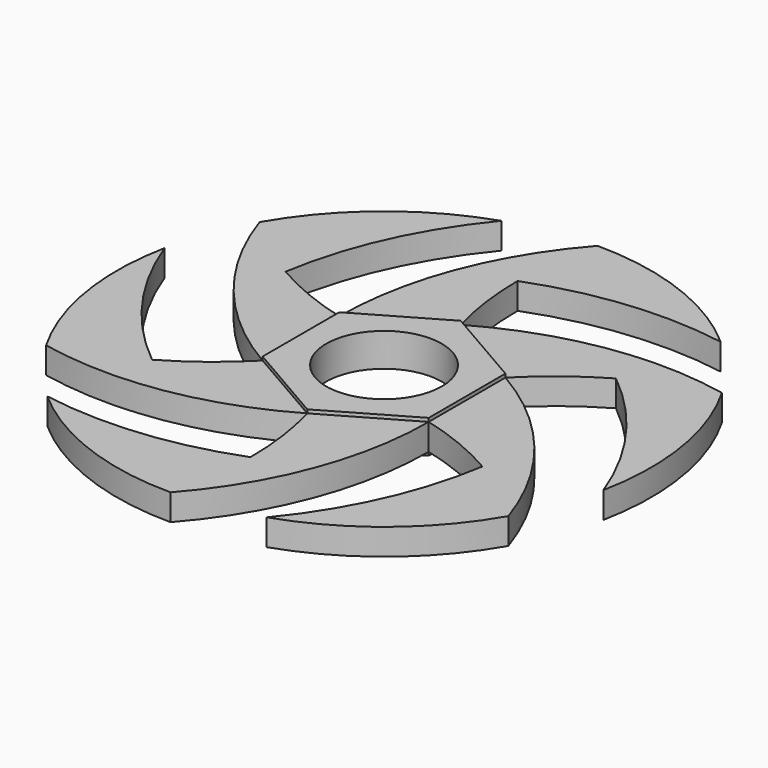
from build123d import *

# Parameters (mm, degrees)
F1_DEPTH = 2.5
F0_R     = 11
F2_DEPTH = 3.175


with BuildPart() as f1:
    # F0 (on Top) → F1 (new body, symmetric)
    with BuildSketch(Plane.XY):
        with BuildLine():
            ThreePointArc((38.774487, -30.809399), (27.844701, -10.96335), (10.5871, 3.716606))
            Line((10.5871, 3.716606), (10.5871, -14.535403))
            ThreePointArc((10.5871, -14.535403), (18.397515, -17.131664), (25.787001, -20.756393))
            ThreePointArc((25.787001, -20.756393), (32.620851, -25.343511), (38.774487, -30.809399))
        make_face()
        with BuildLine():
            Line((-5.219603, 12.84261), (10.5871, 3.716606))
            ThreePointArc((10.5871, 3.716606), (16.740736, 9.182493), (23.574586, 13.769612))
            ThreePointArc((23.574586, 13.769612), (30.964072, 17.39434), (38.774487, 19.990601))
            ThreePointArc((38.774487, 19.990601), (16.122412, 20.448153), (-5.219603, 12.84261))
        make_face()
        with BuildLine():
            ThreePointArc((-5.219603, -56.209399), (6.502686, -36.820901), (10.5871, -14.535403))
            Line((10.5871, -14.535403), (-5.219603, -23.661407))
            ThreePointArc((-5.219603, -23.661407), (-3.562824, -31.723556), (-3.007188, -39.935403))
            ThreePointArc((-3.007188, -39.935403), (-3.562824, -48.14725), (-5.219603, -56.209399))
        make_face()
        with BuildLine():
            Line((-21.026306, 3.716606), (-5.219603, 12.84261))
            ThreePointArc((-5.219603, 12.84261), (-6.876383, 20.904759), (-7.432019, 29.116606))
            ThreePointArc((-7.432019, 29.116606), (-6.876383, 37.328452), (-5.219603, 45.390601))
            ThreePointArc((-5.219603, 45.390601), (-16.941892, 26.002104), (-21.026306, 3.716606))
        make_face()
        with BuildLine():
            ThreePointArc((10.975444, -53.558754), (26.952844, -44.723183), (38.774487, -30.809399))
            ThreePointArc((38.774487, -30.809399), (32.620851, -25.343511), (25.787001, -20.756393))
            ThreePointArc((25.787001, -20.756393), (20.588854, -38.154406), (10.975444, -53.558754))
        make_face()
        with BuildLine():
            ThreePointArc((38.774487, 19.990601), (30.964072, 17.39434), (23.574586, 13.769612))
            ThreePointArc((23.574586, 13.769612), (36.042633, 0.568877), (44.576485, -15.458754))
            ThreePointArc((44.576485, -15.458754), (44.913356, 2.795866), (38.774487, 19.990601))
        make_face()
        with BuildLine():
            ThreePointArc((-49.213694, -30.809399), (-26.561618, -31.26695), (-5.219603, -23.661407))
            Line((-5.219603, -23.661407), (-21.026306, -14.535403))
            ThreePointArc((-21.026306, -14.535403), (-27.179942, -20.00129), (-34.013792, -24.588409))
            ThreePointArc((-34.013792, -24.588409), (-41.403278, -28.213137), (-49.213694, -30.809399))
        make_face()
        with BuildLine():
            ThreePointArc((-38.820645, -43.509399), (-23.180116, -52.928448), (-5.219603, -56.209399))
            ThreePointArc((-5.219603, -56.209399), (-3.562824, -48.14725), (-3.007188, -39.935403))
            ThreePointArc((-3.007188, -39.935403), (-20.673383, -44.132682), (-38.820645, -43.509399))
        make_face()
        with BuildLine():
            Line((-21.026306, -14.535403), (-21.026306, 3.716606))
            ThreePointArc((-21.026306, 3.716606), (-28.836722, 6.312867), (-36.226208, 9.937595))
            ThreePointArc((-36.226208, 9.937595), (-43.060058, 14.524714), (-49.213694, 19.990601))
            ThreePointArc((-49.213694, 19.990601), (-38.283907, 0.144553), (-21.026306, -14.535403))
        make_face()
        with BuildLine():
            ThreePointArc((-5.219603, 45.390601), (-6.876383, 37.328452), (-7.432019, 29.116606))
            ThreePointArc((-7.432019, 29.116606), (10.234176, 33.313884), (28.381438, 32.690601))
            ThreePointArc((28.381438, 32.690601), (12.740909, 42.10965), (-5.219603, 45.390601))
        make_face()
        with BuildLine():
            ThreePointArc((-55.015692, 4.639957), (-55.352563, -13.614663), (-49.213694, -30.809399))
            ThreePointArc((-49.213694, -30.809399), (-41.403278, -28.213137), (-34.013792, -24.588409))
            ThreePointArc((-34.013792, -24.588409), (-46.48184, -11.387675), (-55.015692, 4.639957))
        make_face()
        with BuildLine():
            ThreePointArc((-49.213694, 19.990601), (-43.060058, 14.524714), (-36.226208, 9.937595))
            ThreePointArc((-36.226208, 9.937595), (-31.02806, 27.335608), (-21.41465, 42.739957))
            ThreePointArc((-21.41465, 42.739957), (-37.392051, 33.904386), (-49.213694, 19.990601))
        make_face()
    extrude(amount=F1_DEPTH, both=True)

    # F0 (on Top) → F2 (join, symmetric)
    with BuildSketch(Plane.XY):
        Polygon((10.5871, -14.535403), (10.5871, 3.716606), (-5.219603, 12.84261), (-21.026306, 3.716606), (-21.026306, -14.535403), (-5.219603, -23.661407), align=None)
        with Locations((-5.219603, -5.409399)):
            Circle(F0_R, mode=Mode.SUBTRACT)
    extrude(amount=F2_DEPTH, both=True)


solid = f1.part
